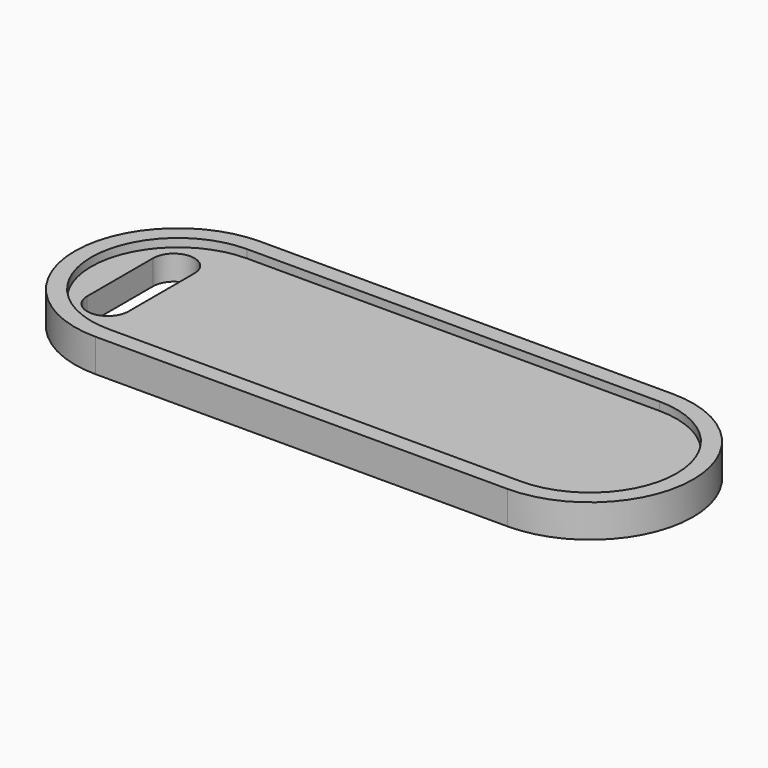
from build123d import *

# Parameters (mm, degrees)
PAD_DEPTH       = 4
POCKET_DEPTH    = 1
POCKET001_DEPTH = 3.001


with BuildPart() as part:
    # Sketch → Pad (new body)
    with BuildSketch(Plane.XY):
        with BuildLine():
            Line((0, 0), (50, 0))
            ThreePointArc((50, 0), (62.5, 12.5), (50, 25))
            Line((50, 25), (0, 25))
            ThreePointArc((0, 25), (-12.5, 12.5), (0, 0))
        make_face()
    extrude(amount=PAD_DEPTH)

    # Sketch001 (on Face6 of Pad) → Pocket (cut)
    with BuildSketch(Plane.XY.offset(4)):
        with BuildLine():
            Line((0, 2), (50, 2))
            ThreePointArc((50, 2), (60.5, 12.5), (50, 23))
            Line((50, 23), (0, 23))
            ThreePointArc((0, 23), (-10.5, 12.5), (0, 2))
        make_face()
    extrude(amount=-POCKET_DEPTH, mode=Mode.SUBTRACT)

    # Sketch002 (on Face11 of Pocket) → Pocket001 (cut, through all)
    with BuildSketch(Plane.XY.offset(3)):
        with BuildLine():
            ThreePointArc((-2, 17.5), (-4.5, 20), (-7, 17.5))
            Line((-7, 17.5), (-7, 7.5))
            ThreePointArc((-7, 7.5), (-4.5, 5), (-2, 7.5))
            Line((-2, 7.5), (-2, 17.5))
        make_face()
    extrude(amount=-POCKET001_DEPTH, mode=Mode.SUBTRACT)


solid = part.part
